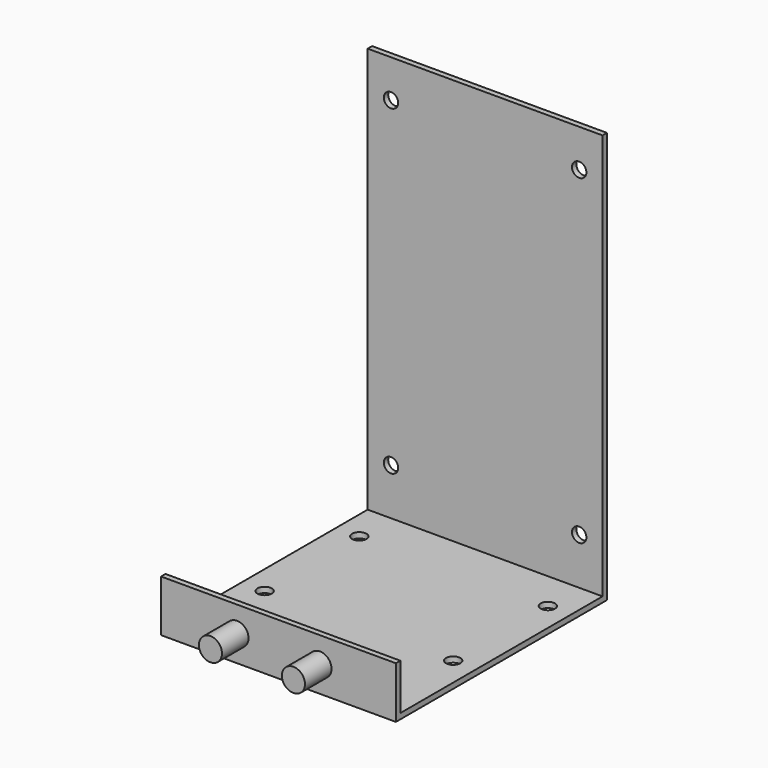
from build123d import *

# Parameters (mm, degrees)
F1_DEPTH      = 31.83
F1_DEPTH_BACK = 31.83
F2_R          = 1.955
F3_DEPTH      = 25
F4_R          = 3.13
F5_DEPTH      = 9
F6_R          = 1.95
F7_DEPTH      = 25


with BuildPart() as f1:
    # F0 (on Right) → F1 (new body, two sides)
    with BuildSketch(Plane.YZ) as f1_sk:
        Polygon((0, 0), (0, 111.5), (-1.5, 111.5), (-1.5, 1.5), (-70, 1.5), (-70, 14), (-71.5, 14), (-71.5, 0), align=None)
    extrude(amount=F1_DEPTH)
    extrude(f1_sk.sketch, amount=-F1_DEPTH_BACK)

    # F2 (on face) → F3 (cut)
    with BuildSketch(Plane(origin=(0, 0, 0), x_dir=(-1, 0, 0), z_dir=(0, 1, 0))):
        with Locations((-25.5, 101.25)):
            Circle(F2_R)
        with Locations((25.5, 101.25)):
            Circle(F2_R)
        with Locations((25.5, 14.15)):
            Circle(F2_R)
        with Locations((-25.5, 14.15)):
            Circle(F2_R)
    extrude(amount=-F3_DEPTH, mode=Mode.SUBTRACT)

    # F4 (on face) → F5 (join)
    with BuildSketch(Plane.XZ.offset(71.5)):
        with Locations((-11.25, 7)):
            Circle(F4_R)
        with Locations((11.25, 7)):
            Circle(F4_R)
    extrude(amount=F5_DEPTH)

    # F6 (on face) → F7 (cut)
    with BuildSketch(Plane(origin=(0, 0, 0), x_dir=(1, 0, 0), z_dir=(0, 0, -1))):
        with Locations((-25.555, 44.25)):
            Circle(F6_R)
        with Locations((25.555, 44.25)):
            Circle(F6_R)
        with Locations((25.555, 12.18)):
            Circle(F6_R)
        with Locations((-25.555, 12.18)):
            Circle(F6_R)
    extrude(amount=-F7_DEPTH, mode=Mode.SUBTRACT)


solid = f1.part
